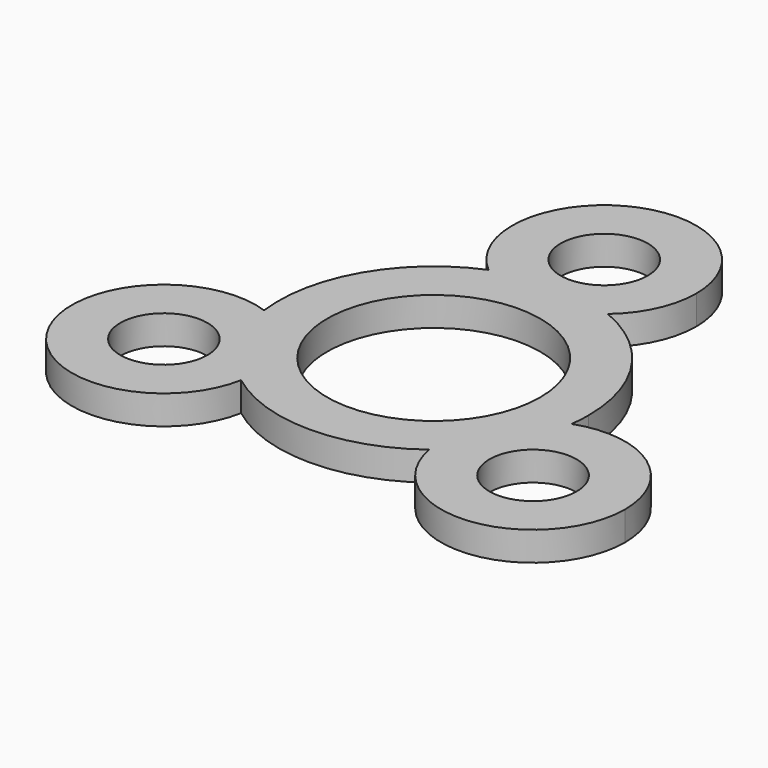
from build123d import *

# Parameters (mm, degrees)
F0_R     = 4.500000108
F0_R_2   = 11
F1_DEPTH = 3


with BuildPart() as f1:
    # F0 (on Top) → F1 (new body)
    with BuildSketch(Plane.XY):
        with BuildLine():
            ThreePointArc((6.1590883621, 14.7670455174), (8.624422863, 18.0163672007), (9.5, 22))
            ThreePointArc((9.5, 22), (-3.9836327993, 30.624422863), (-6.1590883621, 14.7670455174))
            ThreePointArc((-6.1590883621, 14.7670455174), (0, 16.0000000864), (6.1590883621, 14.7670455174))
        make_face()
        with Locations((0, 22)):
            Circle(F0_R, mode=Mode.SUBTRACT)
        with BuildLine():
            ThreePointArc((6.1590883621, 14.7670455174), (0, 16.0000000864), (-6.1590883621, 14.7670455174))
            ThreePointArc((-6.1590883621, 14.7670455174), (0, 12.5), (6.1590883621, 14.7670455174))
        make_face()
        with BuildLine():
            ThreePointArc((6.1590883621, 14.7670455174), (0, 12.5), (-6.1590883621, 14.7670455174))
            ThreePointArc((-6.1590883621, 14.7670455174), (-13.8564065354, 8.0000000432), (-15.868180738, -2.0495957729))
            ThreePointArc((-15.868180738, -2.0495957729), (-11.2904202482, -5.5228471073), (-9.5525588833, -11))
            ThreePointArc((-9.5525588833, -11), (-9.5917731912, -11.8622842279), (-9.7090923758, -12.7174497444))
            ThreePointArc((-9.7090923758, -12.7174497444), (0, -16.0000000864), (9.7090923758, -12.7174497444))
            ThreePointArc((9.7090923758, -12.7174497444), (10.8253175473, -6.25), (15.868180738, -2.0495957729))
            ThreePointArc((15.868180738, -2.0495957729), (15.967011241, -1.0269151831), (16.0000000864, 0))
            ThreePointArc((16.0000000864, 0), (13.3143797657, 8.8728402566), (6.1590883621, 14.7670455174))
        make_face()
        Circle(F0_R_2, mode=Mode.SUBTRACT)
        with BuildLine():
            ThreePointArc((-9.7090923758, -12.7174497444), (-13.8564065354, -8.0000000432), (-15.868180738, -2.0495957729))
            ThreePointArc((-15.868180738, -2.0495957729), (-27.2798002192, -15.75), (-9.7090923758, -12.7174497444))
        make_face()
        with Locations((-19.0525588833, -11)):
            Circle(F0_R, mode=Mode.SUBTRACT)
        with BuildLine():
            ThreePointArc((-9.5525588833, -11), (-11.2904202482, -5.5228471073), (-15.868180738, -2.0495957729))
            ThreePointArc((-15.868180738, -2.0495957729), (-13.8564065354, -8.0000000432), (-9.7090923758, -12.7174497444))
            ThreePointArc((-9.7090923758, -12.7174497444), (-9.5917731912, -11.8622842279), (-9.5525588833, -11))
        make_face()
        with BuildLine():
            ThreePointArc((9.7090923758, -12.7174497444), (13.8564065354, -8.0000000432), (15.868180738, -2.0495957729))
            ThreePointArc((15.868180738, -2.0495957729), (10.8253175473, -6.25), (9.7090923758, -12.7174497444))
        make_face()
        with BuildLine():
            ThreePointArc((28.5525588833, -11), (24.5297117759, -3.2378613649), (15.868180738, -2.0495957729))
            ThreePointArc((15.868180738, -2.0495957729), (13.8564065354, -8.0000000432), (9.7090923758, -12.7174497444))
            ThreePointArc((9.7090923758, -12.7174497444), (19.9148431112, -20.460785692), (28.5525588833, -11))
        make_face()
        with Locations((19.0525588833, -11)):
            Circle(F0_R, mode=Mode.SUBTRACT)
    extrude(amount=F1_DEPTH)


with BuildPart() as f2_1:
    # F2: copy of F1
    add(f1.part.moved(Location((0, 0, 10))))


solid = f1.part
